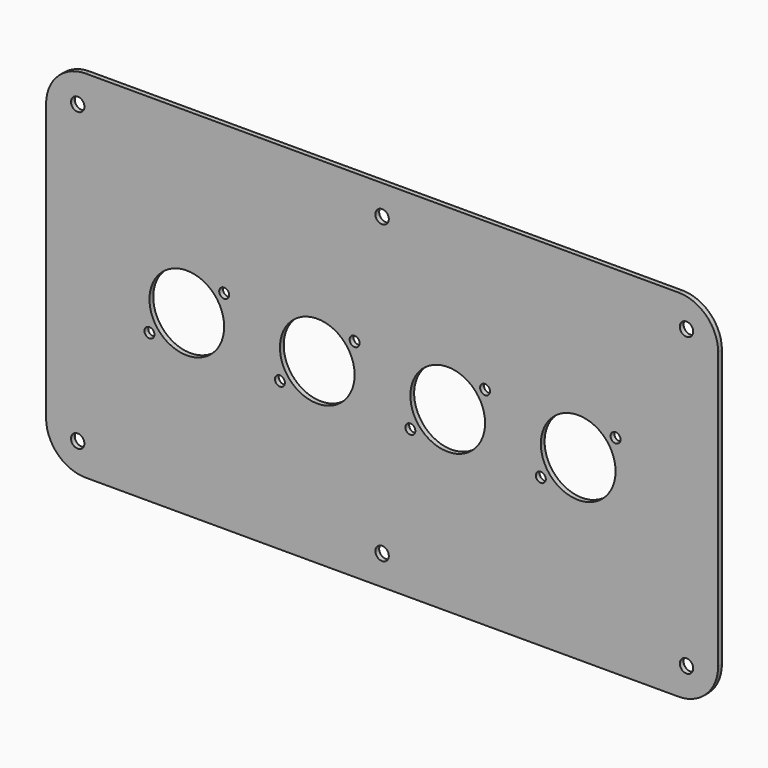
from build123d import *

# Parameters (mm, degrees)
F1_DEPTH = 1.524
F2_R     = 12.0015
F2_R_2   = 1.6002
F3_DEPTH = 1.525
F5_D     = 4.318


with BuildPart() as f1:
    # F0 (on Front) → F1 (new body)
    with BuildSketch(Plane.XZ):
        with BuildLine():
            Line((203.2, 0), (12.7, 0))
            ThreePointArc((12.7, 0), (3.7197438789, -3.7197438789), (0, -12.7))
            Line((0, -12.7), (0, -101.6))
            ThreePointArc((0, -101.6), (3.7197438789, -110.5802561211), (12.7, -114.3))
            Line((12.7, -114.3), (203.2, -114.3))
            ThreePointArc((203.2, -114.3), (212.1802561211, -110.5802561211), (215.9, -101.6))
            Line((215.9, -101.6), (215.9, -12.7))
            ThreePointArc((215.9, -12.7), (212.1802561211, -3.7197438789), (203.2, 0))
        make_face()
    extrude(amount=F1_DEPTH)

    # F2 (on face) → F3 (cut, through all)
    with BuildSketch(Plane.XZ.offset(1.524)):
        with Locations((45.212, -57.15)):
            Circle(F2_R)
        with Locations((33.2105027356, -66.6496)):
            Circle(F2_R_2)
        with Locations((57.2135027356, -47.6504)):
            Circle(F2_R_2)
        with Locations((99.1235027356, -47.6504)):
            Circle(F2_R_2)
        with Locations((87.122, -57.15)):
            Circle(F2_R)
        with Locations((75.1205027356, -66.6496)):
            Circle(F2_R_2)
        with Locations((141.0335027356, -47.6504)):
            Circle(F2_R_2)
        with Locations((129.032, -57.15)):
            Circle(F2_R)
        with Locations((117.0305027356, -66.6496)):
            Circle(F2_R_2)
        with Locations((182.9435027356, -47.6504)):
            Circle(F2_R_2)
        with Locations((170.942, -57.15)):
            Circle(F2_R)
        with Locations((158.9405027356, -66.6496)):
            Circle(F2_R_2)
    extrude(amount=-F3_DEPTH, mode=Mode.SUBTRACT)

    # F5 (through all)
    with Locations(Plane.XZ.offset(1.524)):
        with Locations((10.16, -9.525), (107.95, -9.525), (205.74, -9.525), (205.74, -104.775), (107.95, -104.775), (10.16, -104.775)):
            Hole(F5_D / 2)


solid = f1.part
